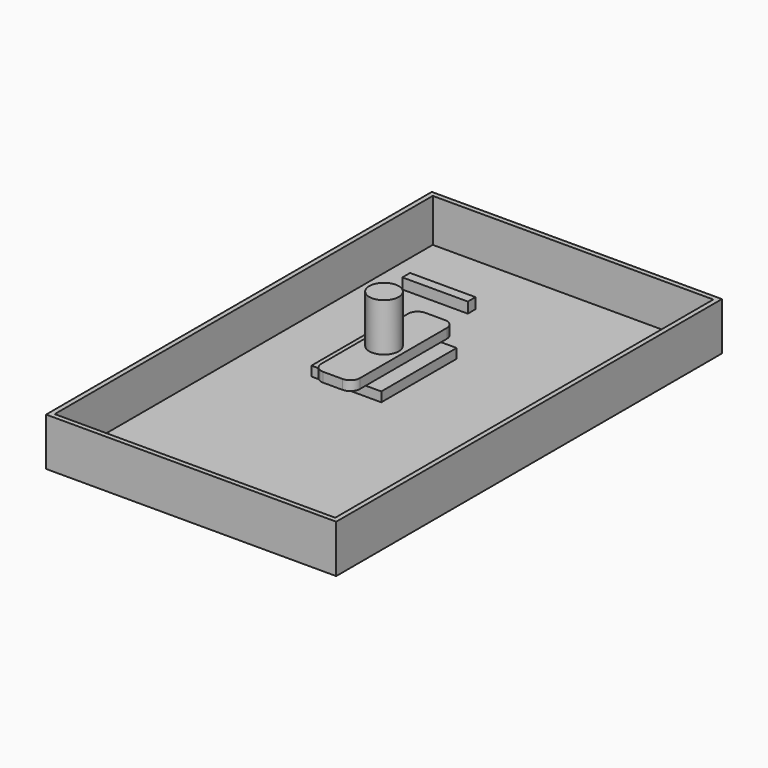
from build123d import *

# Parameters (mm, degrees)
F0_W      = 36.4612303674
F0_H      = 49.1461269557
F1_DEPTH  = 5
F2_W      = 20.1943330467
F2_H      = 66.6557475924
F3_DEPTH  = 5
F4_R      = 5
F5_R      = 7.6822914086
F6_DEPTH  = 25
F7_W      = 34.1282226145
F7_H      = 5.577320233
F8_DEPTH  = 5
F9_W      = 151.4060050249
F9_H      = 251.6252994537
F10_DEPTH = 25
F11_T     = -2.5


with BuildPart() as f1:
    # F0 (on Top) → F1 (new body)
    with BuildSketch(Plane.XY):
        Rectangle(F0_W, F0_H)
    extrude(amount=-F1_DEPTH)


with BuildPart() as f3:
    # F2 (on face) → F3 (new body)
    with BuildSketch(Plane.XY):
        Rectangle(F2_W, F2_H)
    extrude(amount=F3_DEPTH)

    # F4
    f4_edges = [f3.edges().sort_by_distance(p)[0] for p in [
        (-10.097167, -33.327874, 2.5),
        (10.097167, -33.327874, 2.5),
        (10.097167, 33.327874, 2.5),
        (-10.097167, 33.327874, 2.5),
    ]]
    fillet(f4_edges, radius=F4_R)

    # F5 (on face) → F6 (join)
    with BuildSketch(Plane.XY.offset(5)):
        Circle(F5_R)
    extrude(amount=F6_DEPTH)


with BuildPart() as f8:
    # F7 (on face) → F8 (new body)
    with BuildSketch(Plane(origin=(0, 33.3278737962, 0), x_dir=(-1, 0, 0), z_dir=(0, 1, 0))):
        with Locations((0, 14.5977335051)):
            Rectangle(F7_W, F7_H)
    extrude(amount=F8_DEPTH)


with BuildPart() as f10:
    # F9 (on Top) → F10 (new body)
    with BuildSketch(Plane.XY):
        Rectangle(F9_W, F9_H)
    extrude(amount=-F10_DEPTH)

    # F11
    f11_openings = [f10.faces().sort_by_distance(p)[0] for p in [
        (0, 0, 0),
    ]]
    offset(amount=F11_T, openings=f11_openings)


solid = Compound([f1.part, f3.part, f8.part, f10.part])
